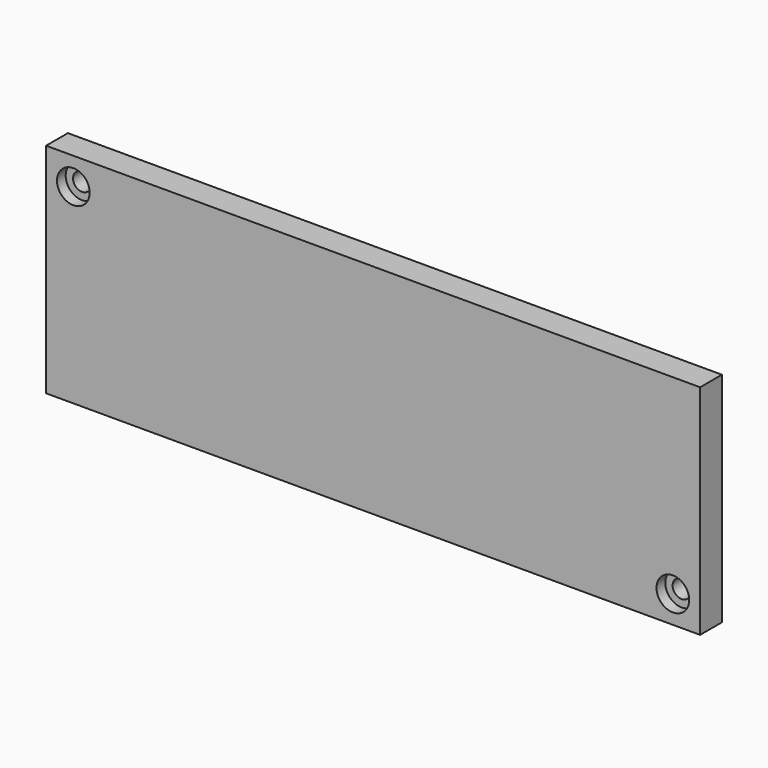
from build123d import *

# Parameters (mm, degrees)
F0_W           = 120
F0_H           = 40
F1_DEPTH       = 5
F3_D           = 3.3
F3_CBORE_D     = 6
F3_CBORE_DEPTH = 2


with BuildPart() as f1:
    # F0 (on Front) → F1 (new body)
    with BuildSketch(Plane.XZ):
        Rectangle(F0_W, F0_H)
    extrude(amount=F1_DEPTH)

    # F3 (through all)
    with Locations(Plane.XZ.offset(5)):
        with Locations((-55, 15), (55, -15)):
            CounterBoreHole(F3_D / 2, F3_CBORE_D / 2, F3_CBORE_DEPTH)


solid = f1.part
